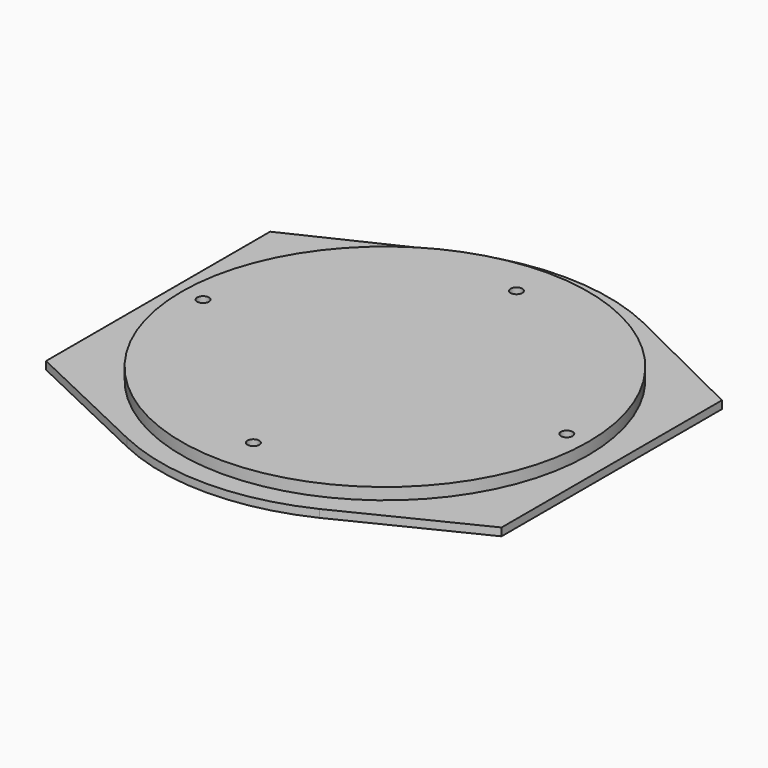
from build123d import *

# Parameters (mm, degrees)
F0_R     = 52
F0_R_2   = 1.5
F1_DEPTH = 5
F3_DEPTH = 2
F4_DEPTH = 2.001


with BuildPart() as f1:
    # F0 (on Top) → F1 (new body)
    with BuildSketch(Plane.XY):
        Circle(F0_R)
        with Locations((0, -42.05)):
            Circle(F0_R_2, mode=Mode.SUBTRACT)
        with Locations((-46.5, 0)):
            Circle(F0_R_2, mode=Mode.SUBTRACT)
        with Locations((46.5, 0)):
            Circle(F0_R_2, mode=Mode.SUBTRACT)
        with Locations((0, 42.05)):
            Circle(F0_R_2, mode=Mode.SUBTRACT)
        Circle(F0_R)
        with Locations((0, -42.05)):
            Circle(F0_R_2, mode=Mode.SUBTRACT)
        with Locations((-46.5, 0)):
            Circle(F0_R_2, mode=Mode.SUBTRACT)
        with Locations((46.5, 0)):
            Circle(F0_R_2, mode=Mode.SUBTRACT)
        with Locations((0, 42.05)):
            Circle(F0_R_2, mode=Mode.SUBTRACT)
    extrude(amount=F1_DEPTH)

    # F2 (on Top) → F3 (join)
    with BuildSketch(Plane.XY):
        with BuildLine():
            Line((-24.5919874092, 51.6990972384), (-58, 35.807728358))
            Line((-58, 35.807728358), (-58, 0))
            Line((-58, 0), (-58, -35.807728358))
            Line((-58, -35.807728358), (-24.5919874092, -51.6990972384))
            ThreePointArc((-24.5919874092, -51.6990972384), (0, -57.25), (24.5919874092, -51.6990972384))
            Line((24.5919874092, -51.6990972384), (58, -35.2185990722))
            Line((58, -35.2185990722), (58, 0))
            Line((58, 0), (58, 35.2185990722))
            Line((58, 35.2185990722), (24.5919874092, 51.6990972384))
            ThreePointArc((24.5919874092, 51.6990972384), (0, 57.25), (-24.5919874092, 51.6990972384))
        make_face()
    extrude(amount=F3_DEPTH)

    # F4 (cut, through all): faces of the model
    f4_faces = [f1.faces().sort_by_distance(p)[0] for p in [
        (0, 42.05, 2),
        (46.5, 0, 2),
        (0, -42.05, 2),
        (-46.5, 0, 2),
    ]]
    extrude(f4_faces, amount=-F4_DEPTH, mode=Mode.SUBTRACT)


solid = f1.part
